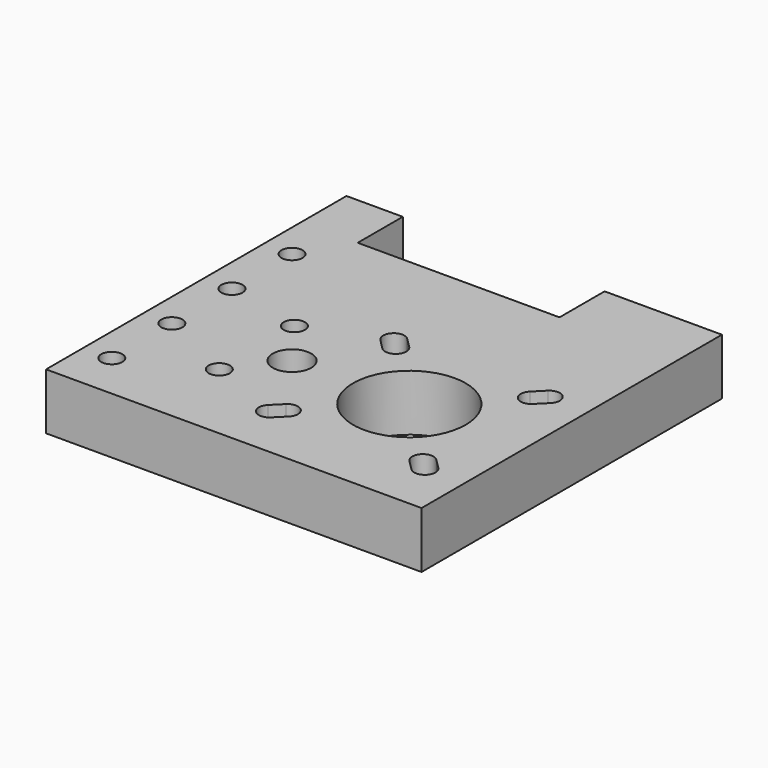
from build123d import *

# Parameters (mm, degrees)
F0_R     = 2.25
F0_R_2   = 4.1
F0_R_3   = 12
F1_DEPTH = 12


with BuildPart() as f1:
    # F0 (on Top) → F1 (new body)
    with BuildSketch(Plane.XY):
        Polygon((-40, 40), (-40, -40), (40, -40), (40, 40), (15, 40), (15, 28), (-28, 28), (-28, 40), align=None)
        with Locations((-34, -30)):
            Circle(F0_R, mode=Mode.SUBTRACT)
        with Locations((-17.5, -22)):
            Circle(F0_R, mode=Mode.SUBTRACT)
        with BuildLine():
            ThreePointArc((-1.03033, -24.84835), (1.421698, -24.360611), (2.81066, -26.43934))
            ThreePointArc((2.81066, -26.43934), (2.639389, -27.300378), (2.15165, -28.03033))
            Line((2.15165, -28.03033), (0.03033, -30.15165))
            ThreePointArc((0.03033, -30.15165), (-3.15165, -30.15165), (-3.15165, -26.96967))
            Line((-3.15165, -26.96967), (-1.03033, -24.84835))
        make_face(mode=Mode.SUBTRACT)
        with Locations((-34, -14)):
            Circle(F0_R, mode=Mode.SUBTRACT)
        with Locations((-10, -12)):
            Circle(F0_R_2, mode=Mode.SUBTRACT)
        with Locations((-17.5, -2)):
            Circle(F0_R, mode=Mode.SUBTRACT)
        with BuildLine():
            ThreePointArc((33.81066, -28.56066), (32.421698, -30.639389), (29.96967, -30.15165))
            Line((29.96967, -30.15165), (27.84835, -28.03033))
            ThreePointArc((27.84835, -28.03033), (27.84835, -24.84835), (31.03033, -24.84835))
            Line((31.03033, -24.84835), (33.15165, -26.96967))
            ThreePointArc((33.15165, -26.96967), (33.639389, -27.699622), (33.81066, -28.56066))
        make_face(mode=Mode.SUBTRACT)
        with Locations((15, -12)):
            Circle(F0_R_3, mode=Mode.SUBTRACT)
        with Locations((-34, 2)):
            Circle(F0_R, mode=Mode.SUBTRACT)
        with Locations((-34, 18)):
            Circle(F0_R, mode=Mode.SUBTRACT)
        with BuildLine():
            ThreePointArc((-3.15165, 2.96967), (-3.15165, 6.15165), (0.03033, 6.15165))
            Line((0.03033, 6.15165), (2.15165, 4.03033))
            ThreePointArc((2.15165, 4.03033), (2.639389, 3.300378), (2.81066, 2.43934))
            ThreePointArc((2.81066, 2.43934), (1.421698, 0.360611), (-1.03033, 0.84835))
            Line((-1.03033, 0.84835), (-3.15165, 2.96967))
        make_face(mode=Mode.SUBTRACT)
        with BuildLine():
            ThreePointArc((29.96967, 6.15165), (32.421698, 6.639389), (33.81066, 4.56066))
            ThreePointArc((33.81066, 4.56066), (33.639389, 3.699622), (33.15165, 2.96967))
            Line((33.15165, 2.96967), (31.03033, 0.84835))
            ThreePointArc((31.03033, 0.84835), (27.84835, 0.84835), (27.84835, 4.03033))
            Line((27.84835, 4.03033), (29.96967, 6.15165))
        make_face(mode=Mode.SUBTRACT)
    extrude(amount=-F1_DEPTH)


solid = f1.part
